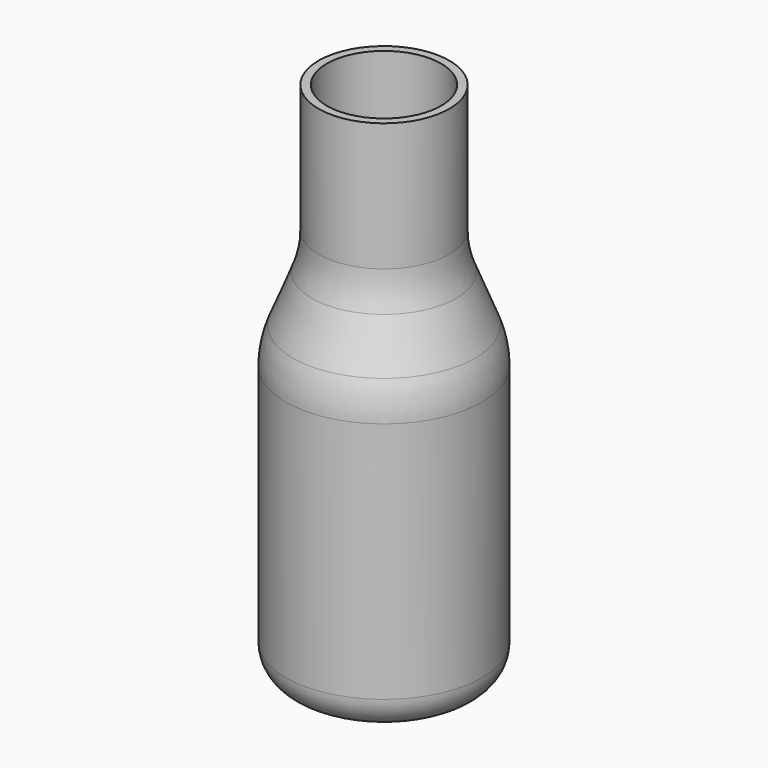
from build123d import *

# Parameters (mm, degrees)
F3_R = 15
F4_R = 5
F5_T = -1.25


with BuildPart() as f2:
    # F1 (on Front) → F2 (revolve)
    with BuildSketch(Plane.XZ):
        Polygon((-15, -20), (0, -20), (0, 20), (0, 60), (-10, 60), (-10, 37.5), (-15, 25), align=None)
    revolve(axis=Axis((0, 0, 0), (0, 0, -1)))

    # F3
    f3_edges = [f2.edges().sort_by_distance(p)[0] for p in [
        (15, 0, 25),
        (10, 0, 37.5),
    ]]
    fillet(f3_edges, radius=F3_R)

    # F4
    f4_edges = [f2.edges().sort_by_distance(p)[0] for p in [
        (15, 0, -20),
    ]]
    fillet(f4_edges, radius=F4_R)

    # F5
    f5_openings = [f2.faces().sort_by_distance(p)[0] for p in [
        (0, 0, 60),
    ]]
    offset(amount=F5_T, openings=f5_openings)


solid = f2.part
